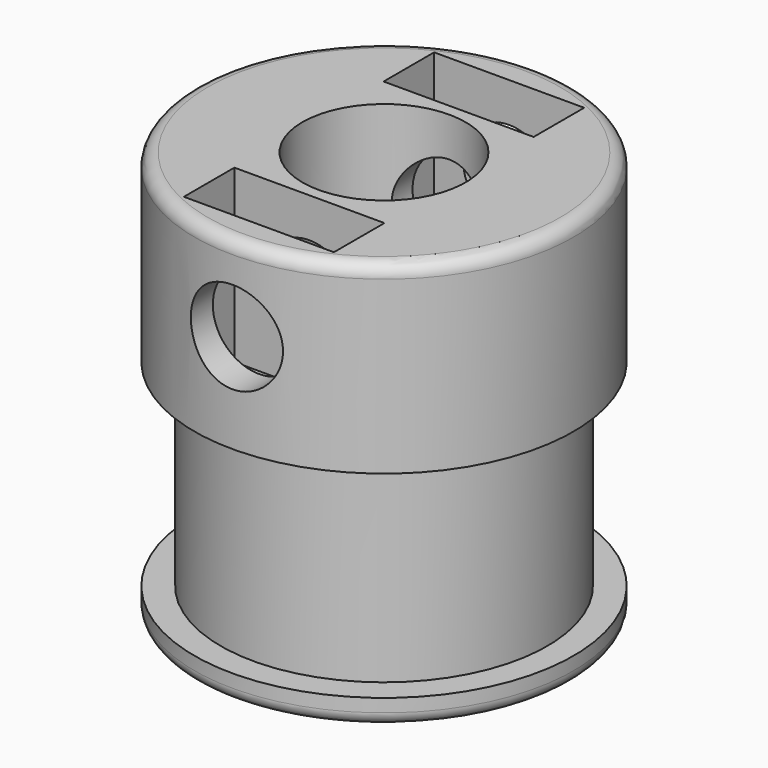
from build123d import *

# Parameters (mm, degrees)
F2_W          = 5.7
F2_H          = 2.4
F3_DEPTH      = 6.5
F4_R          = 1.75
F5_DEPTH      = 10.743375338
F5_DEPTH_BACK = 3.658624662
F6_R          = 0.5


with BuildPart() as f1:
    # F0 (on Front) → F1 (revolve)
    with BuildSketch(Plane.XZ):
        Polygon((-7.2, 0), (-3.1, 0), (-3.1, 15.5), (-7.2, 15.5), (-7.2, 8.5), (-6.2, 8.5), (-6.2, 1), (-7.2, 1), align=None)
    revolve(axis=Axis((0, 0, 7.75), (0, 0, -1)))

    # F2 (on face) → F3 (cut)
    with BuildSketch(Plane.XY.offset(15.5)):
        with Locations((0, -4.742375338)):
            Rectangle(F2_W, F2_H)
        with Locations((0, 4.742375338)):
            Rectangle(F2_W, F2_H)
    extrude(amount=-F3_DEPTH, mode=Mode.SUBTRACT)

    # F4 (on face) → F5 (cut, two sides)
    with BuildSketch(Plane.XZ.offset(3.542375338)) as f5_sk:
        with Locations((0, 12.25)):
            Circle(F4_R)
    extrude(amount=-F5_DEPTH, mode=Mode.SUBTRACT)
    extrude(f5_sk.sketch, amount=F5_DEPTH_BACK, mode=Mode.SUBTRACT)

    # F6
    f6_edges = [f1.edges().sort_by_distance(p)[0] for p in [
        (7.2, 0, 0),
        (7.2, 0, 15.5),
        (3.1, 0, 0),
    ]]
    fillet(f6_edges, radius=F6_R)


solid = f1.part
